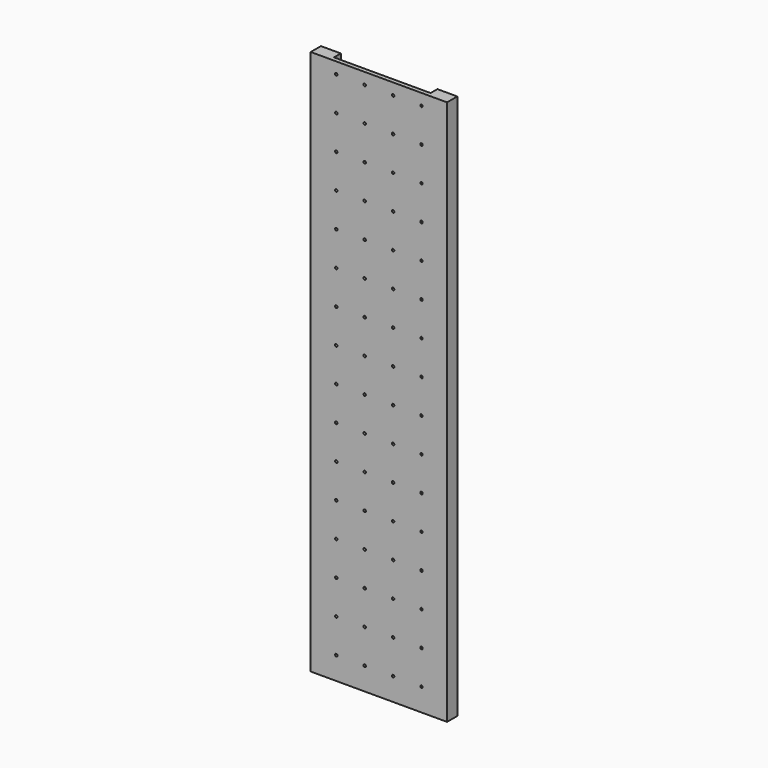
from build123d import *

# Parameters (mm, degrees)
F0_W          = 609.6
F0_H          = 1219.2
F1_DEPTH      = 19.05
F2_W          = 88.9
F2_H          = 38.1
F3_DEPTH      = 1219.2
F4_DEPTH      = 2438.4
F4_DEPTH_BACK = 1219.2
F6_R          = 5.55625
F7_DEPTH      = 19.051


with BuildPart() as f1:
    # F0 (on Front) → F1 (new body)
    with BuildSketch(Plane.XZ):
        Rectangle(F0_W, F0_H)
        with Locations((0, 1219.2)):
            Rectangle(F0_W, F0_H)
    extrude(amount=F1_DEPTH)


with BuildPart() as f3:
    # F2 (on face) → F3 (new body)
    with BuildSketch(Plane.XY.offset(1828.8)):
        with Locations((260.35, 19.05)):
            Rectangle(F2_W, F2_H)
        with Locations((-260.35, 19.05)):
            Rectangle(F2_W, F2_H)
    extrude(amount=-F3_DEPTH)


with BuildPart() as f4:
    # F2 (on face) → F4 (new body, two sides)
    with BuildSketch(Plane.XY.offset(1828.8)) as f4_sk:
        with Locations((260.35, 19.05)):
            Rectangle(F2_W, F2_H)
        with Locations((-260.35, 19.05)):
            Rectangle(F2_W, F2_H)
    extrude(amount=-F4_DEPTH)
    extrude(f4_sk.sketch, amount=-F4_DEPTH_BACK)


with BuildPart() as f1_1:
    add(f1.part)

    # F5: union F3, F4
    add(f3.part)
    add(f4.part)

    # F6 (on face) → F7 (cut, through all)
    with BuildSketch(Plane(origin=(0, 0, 0), x_dir=(-1, 0, 0), z_dir=(0, 1, 0))):
        with Locations((-190.5, 1778)):
            Circle(F6_R)
        with Locations((-190.5, 1625.6)):
            Circle(F6_R)
        with Locations((-190.5, 1473.2)):
            Circle(F6_R)
        with Locations((-190.5, 1320.8)):
            Circle(F6_R)
        with Locations((-190.5, 1168.4)):
            Circle(F6_R)
        with Locations((-63.5, 1778)):
            Circle(F6_R)
        with Locations((-63.5, 1625.6)):
            Circle(F6_R)
        with Locations((-63.5, 1473.2)):
            Circle(F6_R)
        with Locations((-63.5, 1320.8)):
            Circle(F6_R)
        with Locations((-63.5, 1168.4)):
            Circle(F6_R)
        with Locations((63.5, 1778)):
            Circle(F6_R)
        with Locations((63.5, 1625.6)):
            Circle(F6_R)
        with Locations((63.5, 1473.2)):
            Circle(F6_R)
        with Locations((63.5, 1320.8)):
            Circle(F6_R)
        with Locations((63.5, 1168.4)):
            Circle(F6_R)
        with Locations((190.5, 1778)):
            Circle(F6_R)
        with Locations((190.5, 1625.6)):
            Circle(F6_R)
        with Locations((190.5, 1473.2)):
            Circle(F6_R)
        with Locations((190.5, 1320.8)):
            Circle(F6_R)
        with Locations((190.5, 1168.4)):
            Circle(F6_R)
        with Locations((-190.5, 1016)):
            Circle(F6_R)
        with Locations((-190.5, 863.6)):
            Circle(F6_R)
        with Locations((-190.5, 711.2)):
            Circle(F6_R)
        with Locations((-190.5, 558.8)):
            Circle(F6_R)
        with Locations((-190.5, 406.4)):
            Circle(F6_R)
        with Locations((-190.5, 254)):
            Circle(F6_R)
        with Locations((-190.5, 101.6)):
            Circle(F6_R)
        with Locations((-190.5, -50.8)):
            Circle(F6_R)
        with Locations((-190.5, -203.2)):
            Circle(F6_R)
        with Locations((-190.5, -355.6)):
            Circle(F6_R)
        with Locations((-63.5, 1016)):
            Circle(F6_R)
        with Locations((-63.5, 863.6)):
            Circle(F6_R)
        with Locations((-63.5, 711.2)):
            Circle(F6_R)
        with Locations((-63.5, 558.8)):
            Circle(F6_R)
        with Locations((-63.5, 406.4)):
            Circle(F6_R)
        with Locations((-63.5, 254)):
            Circle(F6_R)
        with Locations((-63.5, 101.6)):
            Circle(F6_R)
        with Locations((-63.5, -50.8)):
            Circle(F6_R)
        with Locations((-63.5, -203.2)):
            Circle(F6_R)
        with Locations((-63.5, -355.6)):
            Circle(F6_R)
        with Locations((63.5, 1016)):
            Circle(F6_R)
        with Locations((63.5, 863.6)):
            Circle(F6_R)
        with Locations((63.5, 711.2)):
            Circle(F6_R)
        with Locations((63.5, 558.8)):
            Circle(F6_R)
        with Locations((63.5, 406.4)):
            Circle(F6_R)
        with Locations((63.5, 254)):
            Circle(F6_R)
        with Locations((63.5, 101.6)):
            Circle(F6_R)
        with Locations((63.5, -50.8)):
            Circle(F6_R)
        with Locations((63.5, -203.2)):
            Circle(F6_R)
        with Locations((63.5, -355.6)):
            Circle(F6_R)
        with Locations((190.5, 1016)):
            Circle(F6_R)
        with Locations((190.5, 863.6)):
            Circle(F6_R)
        with Locations((190.5, 711.2)):
            Circle(F6_R)
        with Locations((190.5, 558.8)):
            Circle(F6_R)
        with Locations((190.5, 406.4)):
            Circle(F6_R)
        with Locations((190.5, 254)):
            Circle(F6_R)
        with Locations((190.5, 101.6)):
            Circle(F6_R)
        with Locations((190.5, -50.8)):
            Circle(F6_R)
        with Locations((190.5, -203.2)):
            Circle(F6_R)
        with Locations((190.5, -355.6)):
            Circle(F6_R)
        with Locations((-190.5, -508)):
            Circle(F6_R)
        with Locations((-63.5, -508)):
            Circle(F6_R)
        with Locations((63.5, -508)):
            Circle(F6_R)
        with Locations((190.5, -508)):
            Circle(F6_R)
    extrude(amount=-F7_DEPTH, mode=Mode.SUBTRACT)


solid = f1_1.part
